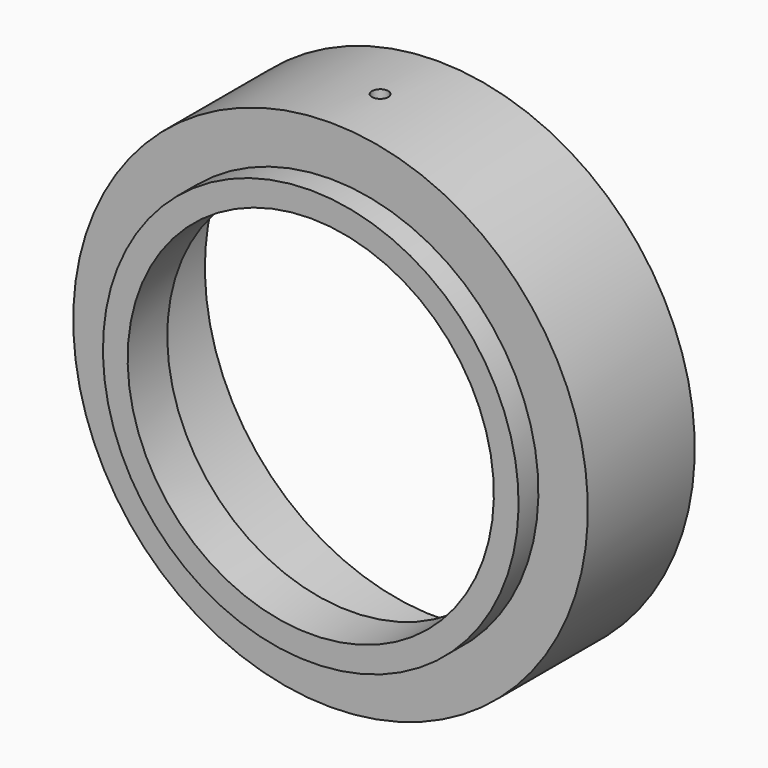
from build123d import *

# Parameters (mm, degrees)
F5_D     = 3.3
F5_DEPTH = 7.1
F5_START = 0.0261846
F5_TIP   = 0.9914200214


with BuildPart() as f1:
    # F0 (on Right) → F1 (revolve)
    with BuildSketch(Plane.YZ):
        Polygon((5, 42), (0, 42), (0, 37), (10, 37), (10, 47), (32, 47), (32, 52), (5, 52), align=None)
    revolve(axis=Axis((0, 25.2126716077, 0), (0, 1, 0)))

    # F5
    # its depths count from where the whole tool has entered the part; down to there all is cleared
    with Locations(Plane.XY.offset(52).offset(-F5_START)):
        with Locations((0, 17.5)):
            Hole(F5_D / 2, depth=F5_DEPTH)
            with Locations((0, 0, -(F5_DEPTH + F5_TIP / 2))):  # 118° drill point
                Cone(0, F5_D / 2, F5_TIP, mode=Mode.SUBTRACT)


solid = f1.part
